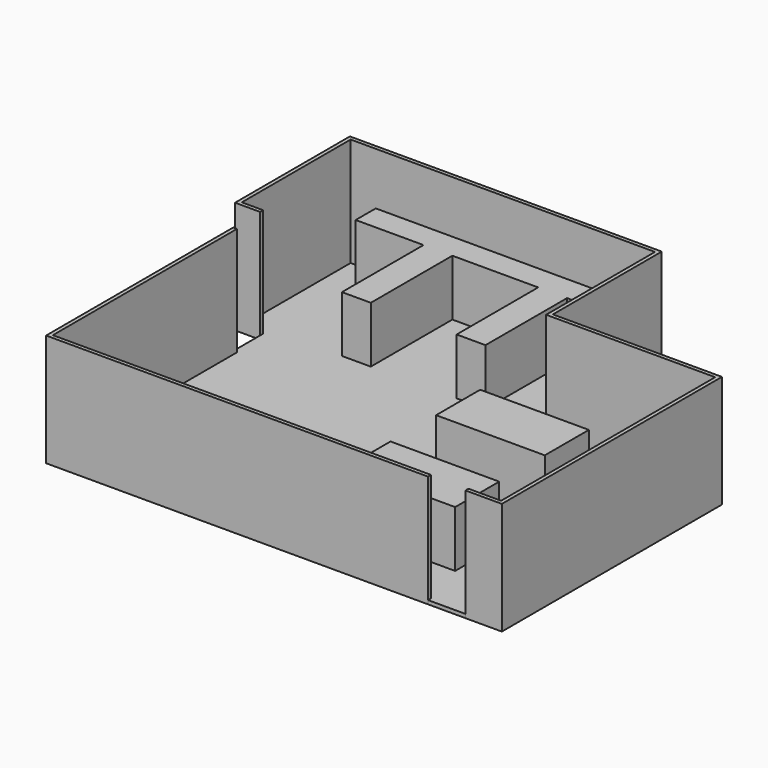
from build123d import *

# Parameters (mm, degrees)
F2_DEPTH = 16
F1_W     = 29
F1_H     = 14.7
F1_W_2   = 8
F1_H_2   = 71.4
F0_W     = 1
F0_H     = 1
F0_H_2   = 9
F0_W_2   = 10
F0_W_3   = 8.7
F3_DEPTH = 1
F4_DEPTH = 30


with BuildPart() as f2:
    # F1 (on face) → F2 (new body)
    with BuildSketch(Plane.XY):
        Polygon((-74.5, 29.6), (-56.4, 29.6), (-56.4, 2.4), (-48.7, 2.4), (-48.7, 29.6), (-25.8, 29.6), (-25.8, 2.4), (-18.1, 2.4), (-18.1, 29.6), (0, 29.6), (0, 36.3), (-74.5, 36.3), align=None)
    extrude(amount=F2_DEPTH)


with BuildPart() as f2b:
    # F1 (on face) → F2, piece 2 (new body)
    with BuildSketch(Plane.XY):
        Polygon((-74.5, -54.2880158953), (-74.5, -71.4), (-57.3880158953, -71.4), align=None)
    extrude(amount=F2_DEPTH)


with BuildPart() as f2c:
    # F1 (on face) → F2, piece 3 (new body)
    with BuildSketch(Plane.XY):
        with Locations((8.1, -21.35)):
            Rectangle(F1_W, F1_H)
    extrude(amount=F2_DEPTH)


with BuildPart() as f2d:
    # F1 (on face) → F2, piece 4 (new body)
    with BuildSketch(Plane.XY):
        with Locations((8.1, -51.25)):
            Rectangle(F1_W, F1_H)
    extrude(amount=F2_DEPTH)


with BuildPart() as f2e:
    # F1 (on face) → F2, piece 5 (new body)
    with BuildSketch(Plane.XY):
        with Locations((41.1, -35.7)):
            Rectangle(F1_W_2, F1_H_2)
    extrude(amount=F2_DEPTH)


with BuildPart() as f3:
    # F0 (on Top) → F3 (new body)
    with BuildSketch(Plane.XY):
        Polygon((-81.2, 36.3), (-74.5, 36.3), (0, 36.3), (0, 1), (1, 1), (1, 37.3), (-82.2, 37.3), (-82.2, -1), (-75.5, -1), (-75.5, 0), (-81.2, 0), align=None)
        with Locations((-75, -0.5)):
            Rectangle(F0_W, F0_H)
        with Locations((0.5, 0.5)):
            Rectangle(F0_W, F0_H)
        with Locations((-75, -5.5)):
            Rectangle(F0_W, F0_H_2)
        Polygon((46.1, 1), (1, 1), (1, 0), (45.1, 0), (45.1, -71.4), (45.1, -72.4), (46.1, -72.4), align=None)
        Polygon((26.4, -71.4), (0, -71.4), (-74.5, -71.4), (-74.5, -10), (-75.5, -10), (-75.5, -72.4), (26.4, -72.4), align=None)
        with Locations((31.4, -71.9)):
            Rectangle(F0_W_2, F0_H)
        with Locations((40.75, -71.9)):
            Rectangle(F0_W_3, F0_H)
        Polygon((0, 0), (-74.5, 0), (-74.5, -1), (-74.5, -10), (-74.5, -71.4), (0, -71.4), align=None)
        Polygon((0, 36.3), (-74.5, 36.3), (-74.5, 0), (0, 0), (0, 1), align=None)
        Polygon((-74.5, 0), (-74.5, 36.3), (-81.2, 36.3), (-81.2, 0), (-75.5, 0), align=None)
        Polygon((1, 0), (0, 0), (0, -71.4), (26.4, -71.4), (36.4, -71.4), (45.1, -71.4), (45.1, 0), align=None)
    extrude(amount=F3_DEPTH)


with BuildPart() as f4:
    # F0 (on Top) → F4 (new body)
    with BuildSketch(Plane.XY):
        Polygon((26.4, -71.4), (0, -71.4), (-74.5, -71.4), (-74.5, -10), (-75.5, -10), (-75.5, -72.4), (26.4, -72.4), align=None)
    extrude(amount=F4_DEPTH)


with BuildPart() as f4b:
    # F0 (on Top) → F4, piece 2 (new body)
    with BuildSketch(Plane.XY):
        with Locations((40.75, -71.9)):
            Rectangle(F0_W_3, F0_H)
        Polygon((46.1, 1), (1, 1), (1, 0), (45.1, 0), (45.1, -71.4), (45.1, -72.4), (46.1, -72.4), align=None)
        with Locations((0.5, 0.5)):
            Rectangle(F0_W, F0_H)
        Polygon((-81.2, 36.3), (-74.5, 36.3), (0, 36.3), (0, 1), (1, 1), (1, 37.3), (-82.2, 37.3), (-82.2, -1), (-75.5, -1), (-75.5, 0), (-81.2, 0), align=None)
    extrude(amount=F4_DEPTH)


solid = Compound([f2.part, f2b.part, f2c.part, f2d.part, f2e.part, f3.part, f4.part, f4b.part])
